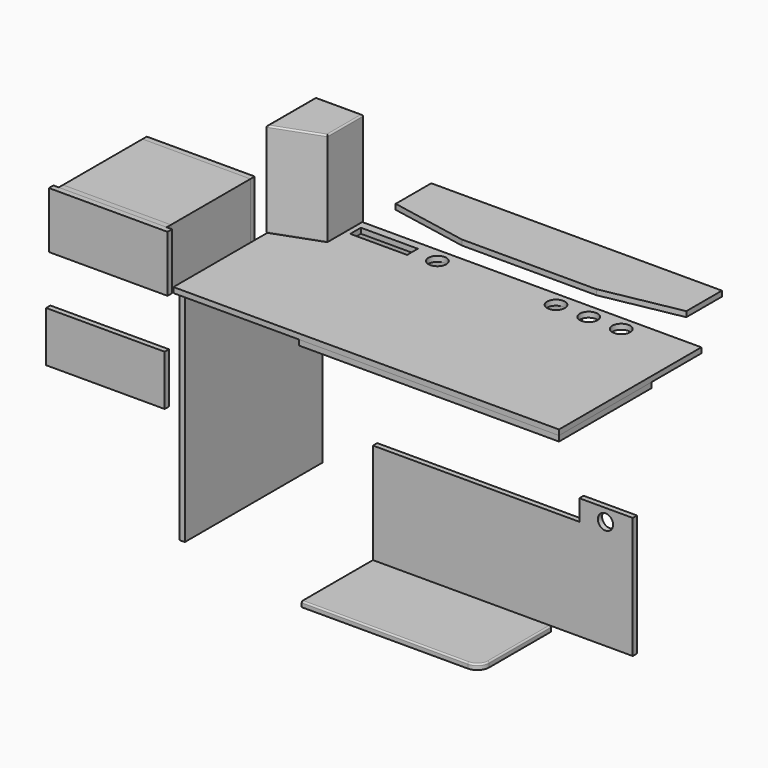
from build123d import *

# Parameters (mm, degrees)
F0_W      = 1300
F0_H      = 600
F0_W_2    = 192
F0_H_2    = 45
F0_R      = 30
F1_DEPTH  = 18
F2_W      = 876
F2_H      = 18
F3_DEPTH  = 60
F4_W      = 876
F4_H      = 138
F4_R      = 30
F5_DEPTH  = 18
F6_W      = 580
F6_H      = 740
F7_DEPTH  = 18
F9_DEPTH  = 320
F10_W     = 364
F10_H     = 190
F10_R     = 55
F11_DEPTH = 18
F12_W     = 364
F12_H     = 190
F12_W_2   = 328
F12_H_2   = 154
F13_DEPTH = 335
F14_W     = 400
F14_H     = 190
F14_R     = 82.5
F15_DEPTH = 18
F16_W     = 364
F16_H     = 190
F17_DEPTH = 18
F18_W     = 876
F18_H     = 390
F19_DEPTH = 18
F20_R     = 25.7260339454
F21_DEPTH = 18
F23_DEPTH = 18
F24_R     = 5
F25_W     = 400
F25_H     = 170
F26_DEPTH = 18
F27_W     = 400
F27_H     = 190
F28_DEPTH = 1
F30_DEPTH = 18
F31_R     = 5


with BuildPart() as f1:
    # F0 (on Top) → F1 (new body)
    with BuildSketch(Plane.XY):
        Rectangle(F0_W, F0_H)
        with Locations((-380, 250)):
            Rectangle(F0_W_2, F0_H_2, mode=Mode.SUBTRACT)
        with Locations((-200, 250)):
            Circle(F0_R, mode=Mode.SUBTRACT)
        with Locations((200, 250)):
            Circle(F0_R, mode=Mode.SUBTRACT)
        with Locations((310, 250)):
            Circle(F0_R, mode=Mode.SUBTRACT)
        with Locations((420, 250)):
            Circle(F0_R, mode=Mode.SUBTRACT)
    extrude(amount=F1_DEPTH)


with BuildPart() as f3:
    # F2 (on face) → F3 (new body)
    with BuildSketch(Plane(origin=(0, 0, 0), x_dir=(1, 0, 0), z_dir=(0, 0, -1))):
        with Locations((-189.7404427528, -291)):
            Rectangle(F2_W, F2_H)
    extrude(amount=F3_DEPTH)


with BuildPart() as f5:
    # F4 (on face) → F5 (new body)
    with BuildSketch(Plane(origin=(0, 0, -60), x_dir=(1, 0, 0), z_dir=(0, 0, -1))):
        with Locations((-189.7404427528, -231)):
            Rectangle(F4_W, F4_H)
        with Locations((188.2595572472, -230.4985970259)):
            Circle(F4_R, mode=Mode.SUBTRACT)
    extrude(amount=F5_DEPTH)


with BuildPart() as f7:
    # F6 (on face) → F7 (new body)
    with BuildSketch(Plane(origin=(-627.7404427528, 0, 0), x_dir=(0, -1, 0), z_dir=(-1, 0, 0))):
        with Locations((-10, -370)):
            Rectangle(F6_W, F6_H)
    extrude(amount=F7_DEPTH)


with BuildPart() as f9:
    # F8 (on face) → F9 (new body)
    with BuildSketch(Plane.XY.offset(18)):
        Polygon((-490, 300), (-650, 300), (-650, 91.7647625174), (-490, 150), align=None)
    extrude(amount=F9_DEPTH)

    # F31
    f31_edges = [f9.edges().sort_by_distance(p)[0] for p in [
        (-650, 195.882381, 338),
        (-570, 120.882381, 338),
        (-490, 225, 338),
        (-570, 300, 338),
        (-570, 120.882381, 18),
        (-490, 225, 18),
        (-570, 300, 18),
        (-650, 195.882381, 18),
    ]]
    fillet(f31_edges, radius=F31_R)


with BuildPart() as f11:
    # F10 (on Front) → F11 (new body)
    with BuildSketch(Plane.XZ):
        with Locations((-1080.3174972534, -95)):
            Rectangle(F10_W, F10_H)
        with Locations((-1080.3174972534, -95)):
            Circle(F10_R, mode=Mode.SUBTRACT)
    extrude(amount=F11_DEPTH)


with BuildPart() as f13:
    # F12 (on face) → F13 (new body)
    with BuildSketch(Plane(origin=(0, 0, 0), x_dir=(-1, 0, 0), z_dir=(0, 1, 0))):
        with Locations((1080.3174972534, -95)):
            Rectangle(F12_W, F12_H)
        with Locations((1080.3174972534, -95)):
            Rectangle(F12_W_2, F12_H_2, mode=Mode.SUBTRACT)
    extrude(amount=F13_DEPTH)


with BuildPart() as f15:
    # F14 (on face) → F15 (new body)
    with BuildSketch(Plane.XZ.offset(18)):
        with Locations((-1080.3174972534, -95)):
            Rectangle(F14_W, F14_H)
        with Locations((-1080.3174972534, -95)):
            Circle(F14_R, mode=Mode.SUBTRACT)
    extrude(amount=F15_DEPTH)


with BuildPart() as f17:
    # F16 (on face) → F17 (new body)
    with BuildSketch(Plane(origin=(0, 335, 0), x_dir=(-1, 0, 0), z_dir=(0, 1, 0))):
        with Locations((1080.3174972534, -95)):
            Rectangle(F16_W, F16_H)
    extrude(amount=F17_DEPTH)


with BuildPart() as f19:
    # F18 (on face) → F19 (new body)
    with BuildSketch(Plane(origin=(0, 0, 0), x_dir=(1, 0, 0), z_dir=(0, 0, -1))):
        with Locations((212, 105)):
            Rectangle(F18_W, F18_H)
    extrude(amount=F19_DEPTH)


with BuildPart() as f21:
    # F20 (on Front) → F21 (new body)
    with BuildSketch(Plane.XZ):
        Polygon((-202.9826407433, -761.7215034605), (673.0173592567, -761.7215034605), (673.0173592567, -351.7215034605), (493.0173592567, -351.7215034605), (493.0173592567, -421.7215034605), (-202.9826407433, -421.7215034605), align=None)
        with Locations((581.0999274254, -393.6610817909)):
            Circle(F20_R, mode=Mode.SUBTRACT)
    extrude(amount=F21_DEPTH)


with BuildPart() as f23:
    # F22 (on face) → F23 (new body)
    with BuildSketch(Plane(origin=(0, 0, -761.7215034605), x_dir=(1, 0, 0), z_dir=(0, 0, -1))):
        with BuildLine():
            Line((-202.9826407433, 318), (-202.9826407433, 18))
            Line((-202.9826407433, 18), (397.0173592567, 18))
            Line((397.0173592567, 18), (397.0173592567, 278))
            ThreePointArc((397.0173592567, 278), (385.3016305042, 306.2842712475), (357.0173592567, 318))
            Line((357.0173592567, 318), (-202.9826407433, 318))
        make_face()
    extrude(amount=F23_DEPTH)

    # F24
    f24_edges = [f23.edges().sort_by_distance(p)[0] for p in [
        (77.017359, -318, -761.721503),
        (385.301631, -306.284271, -761.721503),
        (397.017359, -148, -761.721503),
    ]]
    fillet(f24_edges, radius=F24_R)


with BuildPart() as f26:
    # F25 (on face) → F26 (new body)
    with BuildSketch(Plane.XZ.offset(36)):
        with Locations((-1076.1992037296, -432.6862716079)):
            Rectangle(F25_W, F25_H)
    extrude(amount=F26_DEPTH)


with BuildPart() as f28:
    # F27 (on face) → F28 (new body)
    with BuildSketch(Plane.XZ.offset(36)):
        with Locations((-1080.3174972534, -95)):
            Rectangle(F27_W, F27_H)
    extrude(amount=F28_DEPTH)


with BuildPart() as f30:
    # F29 (on face) → F30 (new body)
    with BuildSketch(Plane.XY.offset(18)):
        Polygon((511.9828635454, 559.2021584511), (-468.0171364546, 559.2021584511), (-468.0171364546, 409.2021584511), (-204.4491767883, 359.2021584511), (248.4149038792, 359.2021584511), (511.9828635454, 409.2021584511), align=None)
    extrude(amount=F30_DEPTH)


solid = Compound([f1.part, f3.part, f5.part, f7.part, f9.part, f11.part, f13.part, f15.part, f17.part, f19.part, f21.part, f23.part, f26.part, f28.part, f30.part])
